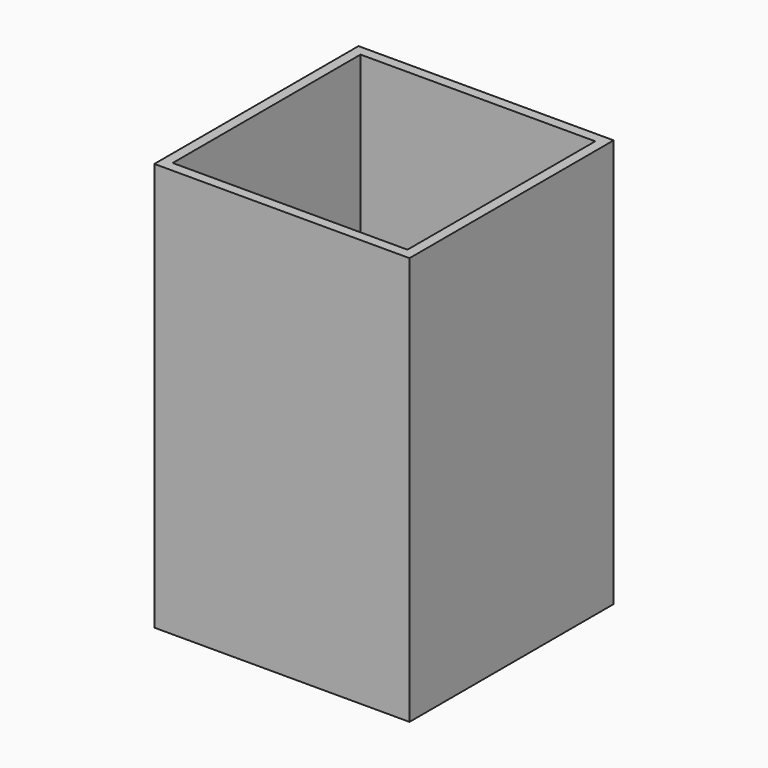
from build123d import *

# Parameters (mm, degrees)
BOX001_W     = 46
BOX001_H     = 46
BOX001_DEPTH = 80
BOX_W        = 50
BOX_H        = 50
BOX_DEPTH    = 80


with BuildPart() as interior:
    # Box001 → Box001 (new body)
    with BuildSketch(Plane(origin=(2, 2, 3), x_dir=(1, 0, 0), z_dir=(0, 0, 1))):
        with Locations((23, 23)):
            Rectangle(BOX001_W, BOX001_H)
    extrude(amount=BOX001_DEPTH)


with BuildPart() as obj1:
    # Box → Box (new body)
    with BuildSketch(Plane.XY):
        with Locations((25, 25)):
            Rectangle(BOX_W, BOX_H)
    extrude(amount=BOX_DEPTH)

    # Cut: cut Interior
    add(interior.part, mode=Mode.SUBTRACT)


solid = obj1.part
